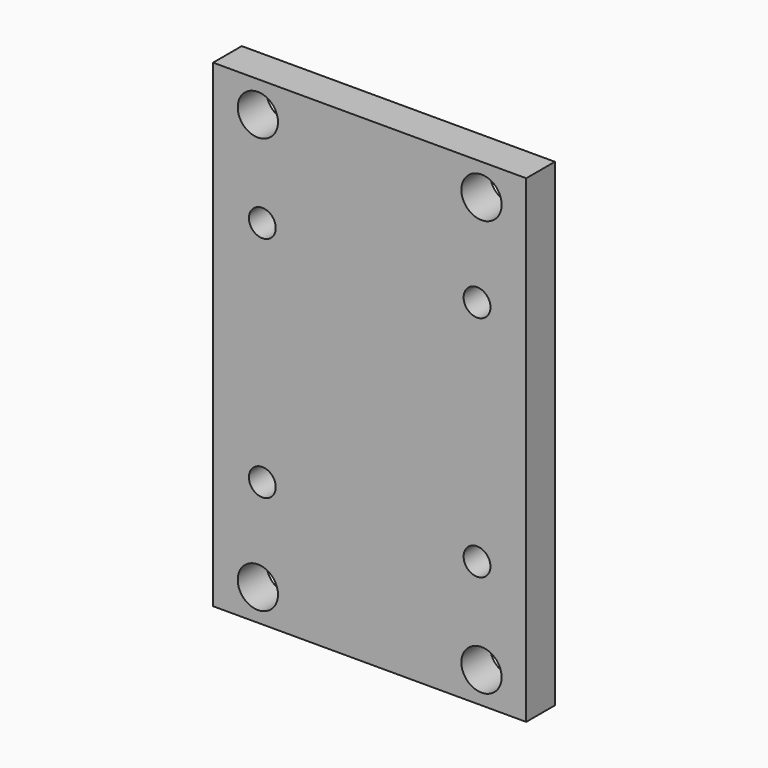
from build123d import *

# Parameters (mm, degrees)
F0_W     = 70
F0_H     = 107
F0_R     = 4.5
F1_DEPTH = 8
F3_D     = 6
F3_DEPTH = 21


with BuildPart() as f1:
    # F0 (on Front) → F1 (new body)
    with BuildSketch(Plane.XZ):
        Rectangle(F0_W, F0_H)
        with Locations((-25, -46.5)):
            Circle(F0_R, mode=Mode.SUBTRACT)
        with Locations((25, -46.5)):
            Circle(F0_R, mode=Mode.SUBTRACT)
        with Locations((-25, 46.5)):
            Circle(F0_R, mode=Mode.SUBTRACT)
        with Locations((25, 46.5)):
            Circle(F0_R, mode=Mode.SUBTRACT)
    extrude(amount=F1_DEPTH)

    # F3
    with Locations(Plane.XZ.offset(8)):
        with Locations((-24, 25.5), (24, 25.5), (-24, -25.5), (24, -25.5)):
            Hole(F3_D / 2, depth=F3_DEPTH)


solid = f1.part
